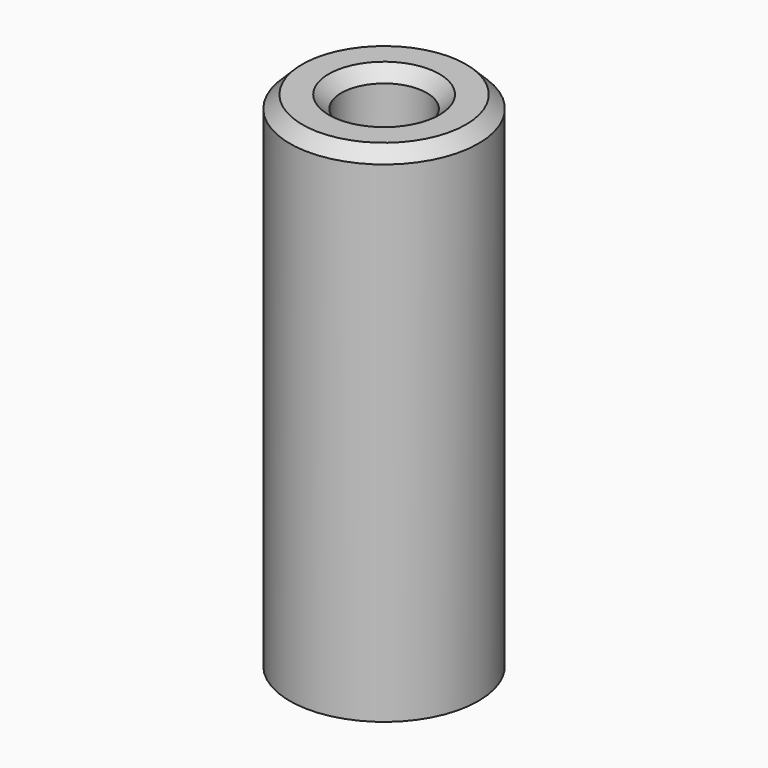
from build123d import *

# Parameters (mm, degrees)
F2_SIZE = 1


with BuildPart() as f1:
    # F0 (on Front) → F1 (revolve)
    with BuildSketch(Plane.XZ):
        Polygon((0, 22.037009), (0, 17.962991), (3.4, 16), (3.4, 0), (7.5, 0), (7.5, 40), (3.4, 40), (3.4, 24), align=None)
    revolve(axis=Axis((0, 0, 33.455674), (0, 0, 1)))

    # F2
    f2_edges = [f1.edges().sort_by_distance(p)[0] for p in [
        (-7.5, 0, 40),
        (-3.4, 0, 40),
        (-3.4, 0, 0),
    ]]
    chamfer(f2_edges, length=F2_SIZE)


solid = f1.part
